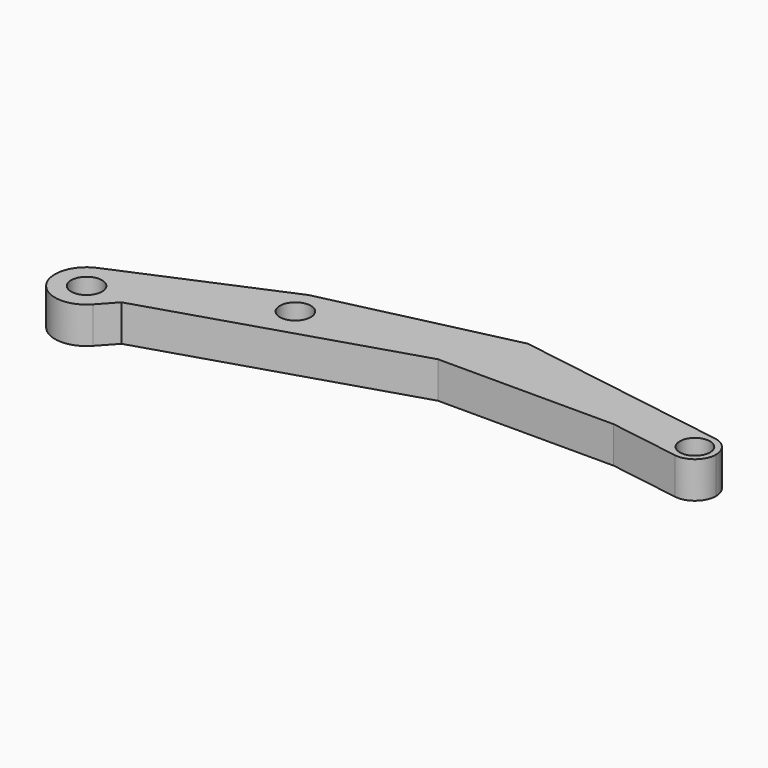
from build123d import *

# Parameters (mm, degrees)
F0_R     = 1.1
F0_R_2   = 1.075
F1_DEPTH = 2.6


with BuildPart() as f1:
    # F0 (on Top) → F1 (new body)
    with BuildSketch(Plane.XY):
        with BuildLine():
            ThreePointArc((-4.746486, 4.808329), (-5.079824, 1.124576), (-1.822392, 2.876799))
            ThreePointArc((-1.822392, 2.876799), (-2.614969, 4.520158), (-4.394433, 4.923045))
            ThreePointArc((-4.394433, 4.923045), (-4.572993, 4.873462), (-4.746486, 4.808329))
        make_face()
        with Locations((-3.922381, 2.876799)):
            Circle(F0_R, mode=Mode.SUBTRACT)
        with BuildLine():
            ThreePointArc((-4.394433, 4.923045), (-2.614969, 4.520158), (-1.822392, 2.876799))
            ThreePointArc((-1.822392, 2.876799), (-5.079824, 1.124576), (-4.746486, 4.808329))
            Line((-4.746486, 4.808329), (-15.782993, 0.099507))
            ThreePointArc((-15.782993, 0.099507), (-13.659897, -0.09261), (-12.65002, -1.97))
            ThreePointArc((-12.65002, -1.97), (-12.802118, -2.78321), (-13.237851, -3.486475))
            Line((-13.237851, -3.486475), (-12.155538, -2.30018))
            Line((-12.155538, -2.30018), (5.849769, 3.333367))
            Line((5.849769, 3.333367), (18.365619, 3.333367))
            Line((18.365619, 3.333367), (23.356251, 2.544399))
            ThreePointArc((23.356251, 2.544399), (22.108876, 4.260224), (23.824702, 5.507599))
            Line((23.824702, 5.507599), (8.583845, 7.917022))
            Line((8.583845, 7.917022), (-4.394433, 4.923045))
        make_face()
        with BuildLine():
            ThreePointArc((-12.65002, -1.97), (-13.659897, -0.09261), (-15.782993, 0.099507))
            ThreePointArc((-15.782993, 0.099507), (-16.73485, -3.272267), (-13.237851, -3.486475))
            ThreePointArc((-13.237851, -3.486475), (-12.802118, -2.78321), (-12.65002, -1.97))
        make_face()
        with Locations((-14.90002, -1.97)):
            Circle(F0_R, mode=Mode.SUBTRACT)
        with BuildLine():
            ThreePointArc((25.090476, 4.025999), (24.730945, 5.000335), (23.824702, 5.507599))
            ThreePointArc((23.824702, 5.507599), (22.108876, 4.260224), (23.356251, 2.544399))
            ThreePointArc((23.356251, 2.544399), (24.564812, 2.88553), (25.090476, 4.025999))
        make_face()
        with Locations((23.590476, 4.025999)):
            Circle(F0_R_2, mode=Mode.SUBTRACT)
    extrude(amount=F1_DEPTH)


solid = f1.part
